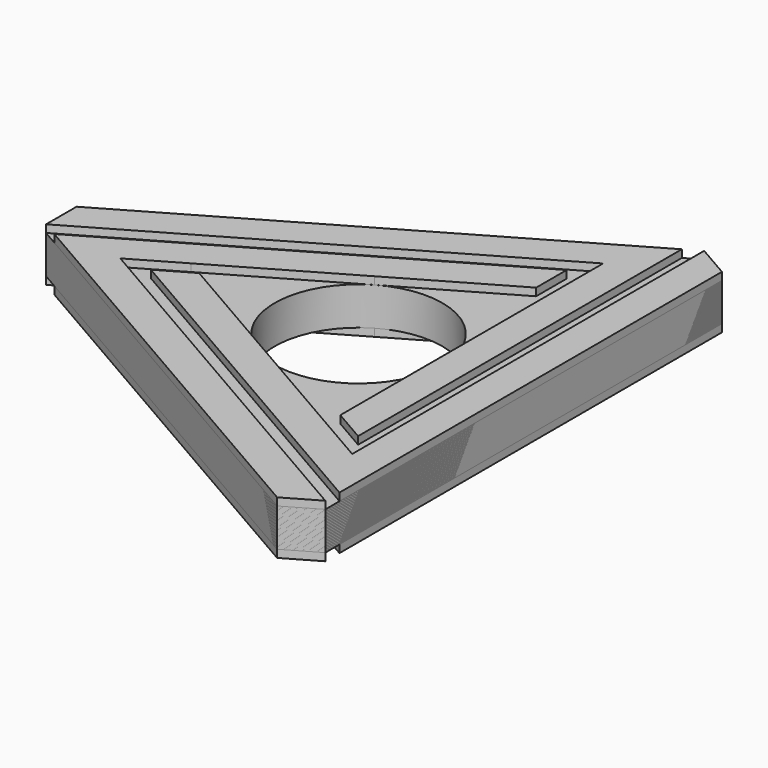
from build123d import *

# Parameters (mm, degrees)
F0_R     = 11
F1_DEPTH = 2.5
F3_DEPTH = 1
F5_COUNT = 3


with BuildPart() as f1:
    # F0 (on Top) → F1 (new body, symmetric)
    with BuildSketch(Plane.XY):
        Polygon((21.666667, -32.527767), (21.666667, 32.527767), (17.33654, 35.027767), (-39.003206, 2.5), (-39.003206, -2.5), (17.33654, -35.027767), align=None)
        Circle(F0_R, mode=Mode.SUBTRACT)
    extrude(amount=F1_DEPTH, both=True)


with BuildPart() as f3:
    # F2 (on face) → F3 (new body)
    with BuildSketch(Plane.XY.offset(2.5)):
        Polygon((8.99346, 22.893936), (-36.996667, -3.658476), (17.33654, -35.027767), (21.666667, -32.527767), (-28.33654, -3.658403), (-22, 0), (-5.5, 9.526279), (8.99346, 17.894082), align=None)
    extrude(amount=F3_DEPTH)


with BuildPart() as f5_1:
    # F5: instance of F3
    add(f3.part.rotate(Axis((0, 0, 8.585526), (0, 0, -1)), 1 * 360 / F5_COUNT))


with BuildPart() as f5_2:
    # F5: instance of F3
    add(f3.part.rotate(Axis((0, 0, 8.585526), (0, 0, -1)), 2 * 360 / F5_COUNT))


with BuildPart() as f5_3:
    # F5: instance of F1
    add(f1.part.rotate(Axis((0, 0, 8.585526), (0, 0, -1)), 1 * 360 / F5_COUNT))


with BuildPart() as f5_4:
    # F5: instance of F1
    add(f1.part.rotate(Axis((0, 0, 8.585526), (0, 0, -1)), 2 * 360 / F5_COUNT))


with BuildPart() as f6_1:
    # F6: instance of F5_1
    add(f5_1.part.mirror(Plane.XY))


with BuildPart() as f6_2:
    # F6: instance of F3
    add(f3.part.mirror(Plane.XY))


with BuildPart() as f6_3:
    # F6: instance of F5_2
    add(f5_2.part.mirror(Plane.XY))


solid = Compound([f1.part, f3.part, f5_1.part, f5_2.part, f5_3.part, f5_4.part, f6_1.part, f6_2.part, f6_3.part])
